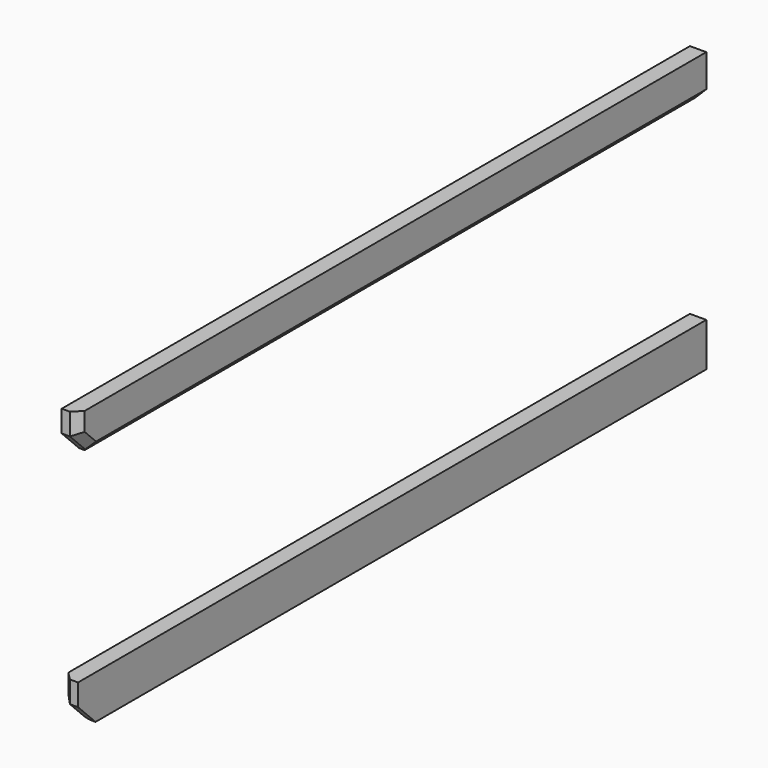
from build123d import *

# Parameters (mm, degrees)
F0_W      = 914.4
F0_H      = 50.8
F1_DEPTH  = 19.05
F2_SIZE   = 25.4
F3_SIZE   = 12.7
F4_DEPTH  = 19.05
F5_SIZE   = 25.4
F6_SIZE   = 12.7
F7_SIZE   = 9.525
F7_2_SIZE = 9.525


with BuildPart() as f1:
    # F0 (on Right) → F1 (new body)
    with BuildSketch(Plane.YZ):
        Rectangle(F0_W, F0_H)
    extrude(amount=F1_DEPTH)

    # F2
    f2_edges = [f1.edges().sort_by_distance(p)[0] for p in [
        (9.525, -457.2, -25.4),
    ]]
    chamfer(f2_edges, length=F2_SIZE)

    # F3
    f3_edges = [f1.edges().sort_by_distance(p)[0] for p in [
        (19.05, 12.7, -25.4),
    ]]
    chamfer(f3_edges, length=F3_SIZE)

    # F7
    f7_edges = [f1.edges().sort_by_distance(p)[0] for p in [
        (19.05, -457.2, 12.7),
        (19.05, -450.85, -6.35),
    ]]
    chamfer(f7_edges, length=F7_SIZE)


with BuildPart() as f4:
    # F0 (on Right) → F4 (new body)
    with BuildSketch(Plane.YZ):
        with Locations((0, -274.4600176811)):
            Rectangle(F0_W, F0_H)
    extrude(amount=F4_DEPTH)

    # F5
    f5_edges = [f4.edges().sort_by_distance(p)[0] for p in [
        (9.525, -457.2, -299.860018),
    ]]
    chamfer(f5_edges, length=F5_SIZE)

    # F6
    f6_edges = [f4.edges().sort_by_distance(p)[0] for p in [
        (0, 12.7, -299.860018),
    ]]
    chamfer(f6_edges, length=F6_SIZE)

    # F7#2
    f7_2_edges = [f4.edges().sort_by_distance(p)[0] for p in [
        (0, -450.85, -280.810018),
        (0, -457.2, -261.760018),
    ]]
    chamfer(f7_2_edges, length=F7_2_SIZE)


solid = Compound([f1.part, f4.part])
